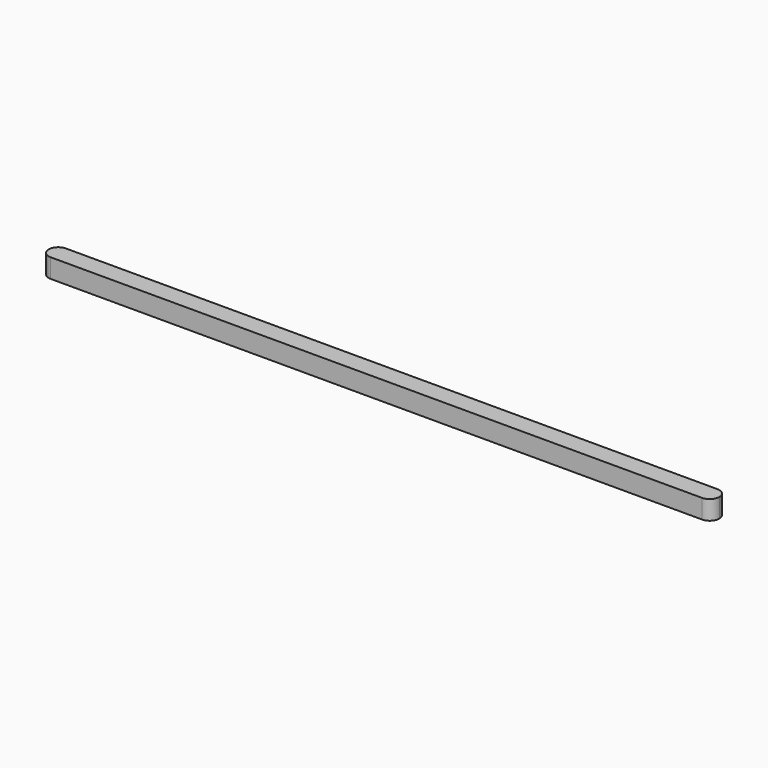
from build123d import *

# Parameters (mm, degrees)
F1_DEPTH = 1.5875


with BuildPart() as f1:
    # F0 (on Top) → F1 (new body)
    with BuildSketch(Plane.XY):
        with BuildLine():
            Line((27.1145, 0.79375), (27.1145, -0.79375))
            ThreePointArc((27.1145, -0.79375), (27.675766, -0.561266), (27.90825, 0))
            ThreePointArc((27.90825, 0), (27.675766, 0.561266), (27.1145, 0.79375))
        make_face()
        with BuildLine():
            ThreePointArc((27.1145, 0.79375), (26.32075, 0), (27.1145, -0.79375))
            Line((27.1145, -0.79375), (27.1145, 0.79375))
        make_face()
        with BuildLine():
            Line((-27.1145, -0.79375), (27.1145, -0.79375))
            ThreePointArc((27.1145, -0.79375), (26.32075, 0), (27.1145, 0.79375))
            Line((27.1145, 0.79375), (-27.1145, 0.79375))
            ThreePointArc((-27.1145, 0.79375), (-26.553234, 0.561266), (-26.32075, 0))
            ThreePointArc((-26.32075, 0), (-26.553234, -0.561266), (-27.1145, -0.79375))
        make_face()
        with BuildLine():
            ThreePointArc((-27.1145, 0.79375), (-27.90825, 0), (-27.1145, -0.79375))
            Line((-27.1145, -0.79375), (-27.1145, 0.79375))
        make_face()
        with BuildLine():
            Line((-27.1145, 0.79375), (-27.1145, -0.79375))
            ThreePointArc((-27.1145, -0.79375), (-26.553234, -0.561266), (-26.32075, 0))
            ThreePointArc((-26.32075, 0), (-26.553234, 0.561266), (-27.1145, 0.79375))
        make_face()
    extrude(amount=F1_DEPTH)


solid = f1.part
